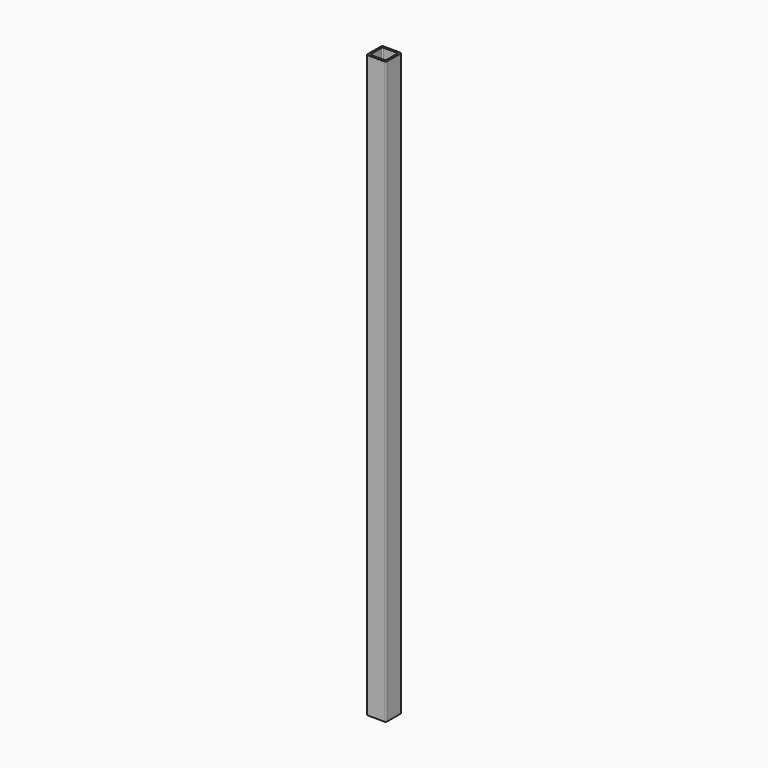
from build123d import *

# Parameters (mm, degrees)
F1_DEPTH = 1490


with BuildPart() as f1:
    # F0 (on Top) → F1 (new body)
    with BuildSketch(Plane.XY):
        with BuildLine():
            Line((-22, -25), (22, -25))
            ThreePointArc((22, -25), (24.12132, -24.12132), (25, -22))
            Line((25, -22), (25, 22))
            ThreePointArc((25, 22), (24.12132, 24.12132), (22, 25))
            Line((22, 25), (-22, 25))
            ThreePointArc((-22, 25), (-24.12132, 24.12132), (-25, 22))
            Line((-25, 22), (-25, -22))
            ThreePointArc((-25, -22), (-24.12132, -24.12132), (-22, -25))
        make_face()
        with BuildLine():
            ThreePointArc((-17, -20), (-19.12132, -19.12132), (-20, -17))
            Line((-20, -17), (-20, 17))
            ThreePointArc((-20, 17), (-19.12132, 19.12132), (-17, 20))
            Line((-17, 20), (17, 20))
            ThreePointArc((17, 20), (19.12132, 19.12132), (20, 17))
            Line((20, 17), (20, -17))
            ThreePointArc((20, -17), (19.12132, -19.12132), (17, -20))
            Line((17, -20), (-17, -20))
        make_face(mode=Mode.SUBTRACT)
    extrude(amount=-F1_DEPTH)


solid = f1.part
